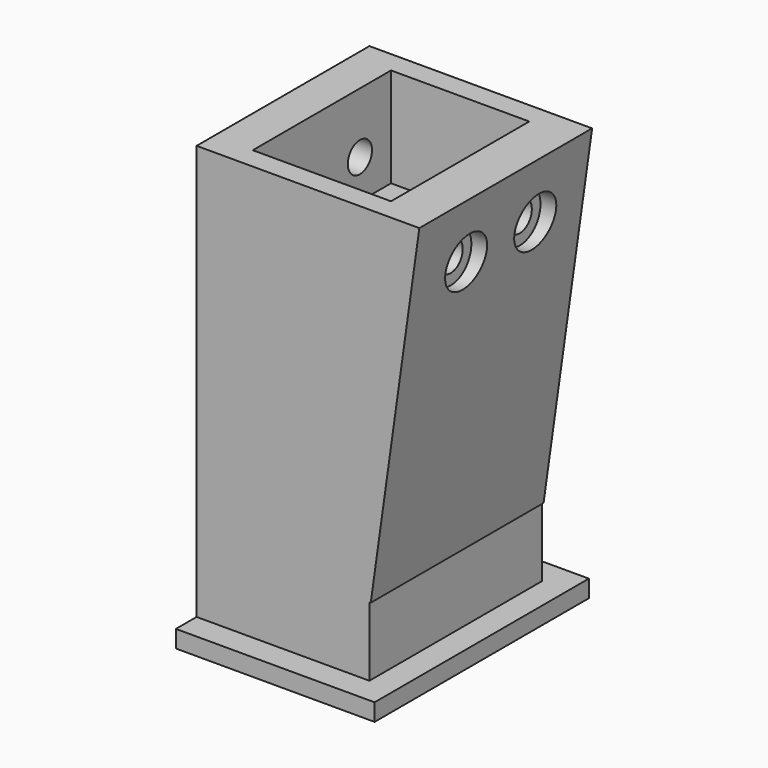
from build123d import *

# Parameters (mm, degrees)
PRISM004_DEPTH            = 10
PRISM004_ROLL_ANGLE       = -90
CYLINDER103_R             = 3
CYLINDER103_DEPTH         = 32
CYLINDER103_ROLL_ANGLE    = -90
CYLINDER104_R             = 3
CYLINDER104_DEPTH         = 32
CYLINDER104_ROLL_ANGLE    = -90
BOX101_W                  = 20
BOX101_H                  = 16
BOX101_DEPTH              = 28
CYLINDER105_R             = 1.75
CYLINDER105_DEPTH         = 32
CYLINDER105_ROLL_ANGLE    = -90
CYLINDER106_R             = 1.75
CYLINDER106_DEPTH         = 32
CYLINDER106_ROLL_ANGLE    = -90
PRISM003_DEPTH            = 10
PRISM003_ROLL_ANGLE       = -90
FUSION073_ROLL_ANGLE      = 90
FUSION073_PLACEMENT_ANGLE = 180
BOX099_W                  = 2
BOX099_H                  = 23
BOX099_DEPTH              = 3
BOX094_W                  = 50
BOX094_H                  = 25
BOX094_DEPTH              = 20
BOX098_W                  = 2
BOX098_H                  = 25
BOX098_DEPTH              = 3
BOX097_W                  = 10
BOX097_H                  = 25
BOX097_DEPTH              = 10
BOX096_W                  = 30
BOX096_H                  = 30
BOX096_DEPTH              = 30
BOX096_PITCH_ANGLE        = 90
BOX095_W                  = 50
BOX095_H                  = 25
BOX095_DEPTH              = 6
BOX095_PITCH_ANGLE        = 8
FUSION071_PLACEMENT_ANGLE = -90
BOX100_W                  = 2
BOX100_H                  = 23
BOX100_DEPTH              = 3
CUT132_ROLL_ANGLE         = 90
CUT132_PLACEMENT_ANGLE    = 90


with BuildPart() as prisma004:
    # Prism004 → Prism004 (new body)
    with BuildSketch(Plane.XY):
        Polygon((3.3, 0), (1.65, 2.857884), (-1.65, 2.857884), (-3.3, 0), (-1.65, -2.857884), (1.65, -2.857884), align=None)
    extrude(amount=PRISM004_DEPTH)


with BuildPart() as prisma004_1:
    # Prism004 roll: moved
    add(prisma004.part.rotate(Axis((0, 0, 0), (1, 0, 0)), PRISM004_ROLL_ANGLE))


with BuildPart() as prisma004_2:
    # Prism004 placement: moved
    add(prisma004_1.part.moved(Location((8, 85, 84))))


with BuildPart() as cilindro030:
    # Cylinder103 → Cylinder103 (new body)
    with BuildSketch(Plane.XY):
        Circle(CYLINDER103_R)
    extrude(amount=CYLINDER103_DEPTH)


with BuildPart() as cilindro030_1:
    # Cylinder103 roll: moved
    add(cilindro030.part.rotate(Axis((0, 0, 0), (1, 0, 0)), CYLINDER103_ROLL_ANGLE))


with BuildPart() as cilindro030_2:
    # Cylinder103 placement: moved
    add(cilindro030_1.part.moved(Location((18, 116, 84))))


with BuildPart() as cilindro031:
    # Cylinder104 → Cylinder104 (new body)
    with BuildSketch(Plane.XY):
        Circle(CYLINDER104_R)
    extrude(amount=CYLINDER104_DEPTH)


with BuildPart() as cilindro031_1:
    # Cylinder104 roll: moved
    add(cilindro031.part.rotate(Axis((0, 0, 0), (1, 0, 0)), CYLINDER104_ROLL_ANGLE))


with BuildPart() as cilindro031_2:
    # Cylinder104 placement: moved
    add(cilindro031_1.part.moved(Location((8, 116, 84))))


with BuildPart() as cubo039:
    # Box101 → Box101 (new body)
    with BuildSketch(Plane(origin=(3.5, 97.5, 79.5), x_dir=(1, 0, 0), z_dir=(0, 0, 1))):
        with Locations((10, 8)):
            Rectangle(BOX101_W, BOX101_H)
    extrude(amount=BOX101_DEPTH)


with BuildPart() as cilindro032:
    # Cylinder105 → Cylinder105 (new body)
    with BuildSketch(Plane.XY):
        Circle(CYLINDER105_R)
    extrude(amount=CYLINDER105_DEPTH)


with BuildPart() as cilindro032_1:
    # Cylinder105 roll: moved
    add(cilindro032.part.rotate(Axis((0, 0, 0), (1, 0, 0)), CYLINDER105_ROLL_ANGLE))


with BuildPart() as cilindro032_2:
    # Cylinder105 placement: moved
    add(cilindro032_1.part.moved(Location((18, 90, 84))))


with BuildPart() as cilindro033:
    # Cylinder106 → Cylinder106 (new body)
    with BuildSketch(Plane.XY):
        Circle(CYLINDER106_R)
    extrude(amount=CYLINDER106_DEPTH)


with BuildPart() as cilindro033_1:
    # Cylinder106 roll: moved
    add(cilindro033.part.rotate(Axis((0, 0, 0), (1, 0, 0)), CYLINDER106_ROLL_ANGLE))


with BuildPart() as cilindro033_2:
    # Cylinder106 placement: moved
    add(cilindro033_1.part.moved(Location((8, 90, 84))))


with BuildPart() as arm_positive_cut001:
    # Prism003 → Prism003 (new body)
    with BuildSketch(Plane.XY):
        Polygon((3.3, 0), (1.65, 2.857884), (-1.65, 2.857884), (-3.3, 0), (-1.65, -2.857884), (1.65, -2.857884), align=None)
    extrude(amount=PRISM003_DEPTH)


with BuildPart() as arm_positive_cut001_1:
    # Prism003 roll: moved
    add(arm_positive_cut001.part.rotate(Axis((0, 0, 0), (1, 0, 0)), PRISM003_ROLL_ANGLE))


with BuildPart() as arm_positive_cut001_2:
    # Prism003 placement: moved
    add(arm_positive_cut001_1.part.moved(Location((18, 85, 84))))

    # Fusion073: union Prisma004, Cilindro030, Cilindro031, Cubo039, Cilindro032, Cilindro033
    add(prisma004_2.part)
    add(cilindro030_2.part)
    add(cilindro031_2.part)
    add(cubo039.part)
    add(cilindro032_2.part)
    add(cilindro033_2.part)


with BuildPart() as arm_positive_cut001_3:
    # Fusion073 roll: moved
    add(arm_positive_cut001_2.part.rotate(Axis((0, 0, 0), (1, 0, 0)), FUSION073_ROLL_ANGLE))


with BuildPart() as arm_positive_cut001_4:
    # Fusion073 placement: moved
    add(arm_positive_cut001_3.part.moved(Location((26, -91, -93))).rotate(Axis((26, -91, -93), (0, 0, 1)), FUSION073_PLACEMENT_ANGLE))


with BuildPart() as cubo038:
    # Box099 → Box099 (new body)
    with BuildSketch(Plane(origin=(0, -48, 0), x_dir=(0, -1, 0), z_dir=(-1, 0, 0))):
        with Locations((1, 11.5)):
            Rectangle(BOX099_W, BOX099_H)
    extrude(amount=BOX099_DEPTH)


with BuildPart() as cubo033:
    # Box094 → Box094 (new body)
    with BuildSketch(Plane.XY):
        with Locations((25, 12.5)):
            Rectangle(BOX094_W, BOX094_H)
    extrude(amount=BOX094_DEPTH)


with BuildPart() as cubo037:
    # Box098 → Box098 (new body)
    with BuildSketch(Plane(origin=(48, 0, 20), x_dir=(1, 0, 0), z_dir=(0, 0, 1))):
        with Locations((1, 12.5)):
            Rectangle(BOX098_W, BOX098_H)
    extrude(amount=BOX098_DEPTH)


with BuildPart() as cubo036:
    # Box097 → Box097 (new body)
    with BuildSketch(Plane(origin=(-10, 0, 16), x_dir=(1, 0, 0), z_dir=(0, 0, 1))):
        with Locations((5, 12.5)):
            Rectangle(BOX097_W, BOX097_H)
    extrude(amount=BOX097_DEPTH)


with BuildPart() as cubo035:
    # Box096 → Box096 (new body)
    with BuildSketch(Plane.XY):
        with Locations((15, 15)):
            Rectangle(BOX096_W, BOX096_H)
    extrude(amount=BOX096_DEPTH)


with BuildPart() as cubo035_1:
    # Box096 pitch: moved
    add(cubo035.part.rotate(Axis((0, 0, 0), (0, 1, 0)), BOX096_PITCH_ANGLE))


with BuildPart() as cubo035_2:
    # Box096 placement: moved
    add(cubo035_1.part.moved(Location((40, 0, 30))))


with BuildPart() as brazo:
    # Box095 → Box095 (new body)
    with BuildSketch(Plane.XY):
        with Locations((25, 12.5)):
            Rectangle(BOX095_W, BOX095_H)
    extrude(amount=BOX095_DEPTH)


with BuildPart() as brazo_1:
    # Box095 pitch: moved
    add(brazo.part.rotate(Axis((0, 0, 0), (0, 1, 0)), BOX095_PITCH_ANGLE))


with BuildPart() as brazo_2:
    # Box095 placement: moved
    add(brazo_1.part.moved(Location((-2, 0, 20))))

    # Cut130: cut Cubo035
    add(cubo035_2.part, mode=Mode.SUBTRACT)

    # Cut131: cut Cubo036
    add(cubo036.part, mode=Mode.SUBTRACT)

    # Fusion071: union Cubo033, Cubo037
    add(cubo033.part)
    add(cubo037.part)


with BuildPart() as brazo_3:
    # Fusion071 placement: moved
    add(brazo_2.part.rotate(Axis((0, 0, 0), (0, 0, 1)), FUSION071_PLACEMENT_ANGLE))


with BuildPart() as cut132:
    # Box100 → Box100 (new body)
    with BuildSketch(Plane(origin=(28, -48, 0), x_dir=(0, -1, 0), z_dir=(-1, 0, 0))):
        with Locations((1, 11.5)):
            Rectangle(BOX100_W, BOX100_H)
    extrude(amount=BOX100_DEPTH)

    # Fusion072: union Cubo038, brazo
    add(cubo038.part)
    add(brazo_3.part)

    # Cut132: cut arm-positive-cut001
    add(arm_positive_cut001_4.part, mode=Mode.SUBTRACT)


with BuildPart() as cut132_1:
    # Cut132 roll: moved
    add(cut132.part.rotate(Axis((0, 0, 0), (1, 0, 0)), CUT132_ROLL_ANGLE))


with BuildPart() as cut132_2:
    # Cut132 placement: moved
    add(cut132_1.part.moved(Location((-182, 44, 93))).rotate(Axis((-182, 44, 93), (0, 0, 1)), CUT132_PLACEMENT_ANGLE))


solid = cut132_2.part
